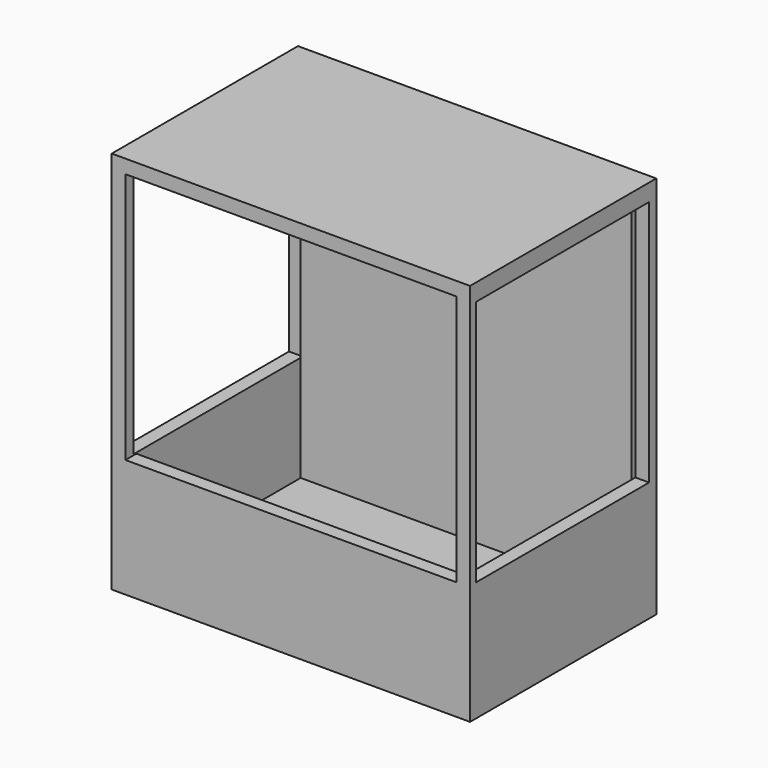
from build123d import *

# Parameters (mm, degrees)
F0_W     = 664.733171463
F0_H     = 712.0994329453
F1_DEPTH = 431.8
F2_T     = -25.4
F3_W     = 613.933171463
F3_H     = 194.4507785797
F4_DEPTH = 25.4
F5_W     = 401.3557694852
F5_H     = 468.805462122
F6_DEPTH = 25.4
F7_W     = 392.9471150041
F7_H     = 457.1952670813
F8_DEPTH = 25.4
F9_DEPTH = 10.668


with BuildPart() as f1:
    # F0 (on Front) → F1 (new body)
    with BuildSketch(Plane.XZ):
        Rectangle(F0_W, F0_H)
    extrude(amount=F1_DEPTH)

    # F2
    f2_openings = [f1.faces().sort_by_distance(p)[0] for p in [
        (0, -431.8, 0),
    ]]
    offset(amount=F2_T, openings=f2_openings)

    # F3 (on face) → F4 (join)
    with BuildSketch(Plane.XZ.offset(431.8)):
        with Locations((0, -233.4243271828)):
            Rectangle(F3_W, F3_H)
    extrude(amount=-F4_DEPTH)

    # F5 (on face) → F6 (cut)
    with BuildSketch(Plane.YZ.offset(332.3665857315)):
        with Locations((-217.3207271844, 89.9267345667)):
            Rectangle(F5_W, F5_H)
    extrude(amount=-F6_DEPTH, mode=Mode.SUBTRACT)

    # F7 (on face) → F8 (cut)
    with BuildSketch(Plane(origin=(-332.3665857315, 0, 0), x_dir=(0, -1, 0), z_dir=(-1, 0, 0))):
        with Locations((217.2129563987, 94.2879095674)):
            Rectangle(F7_W, F7_H)
    extrude(amount=-F8_DEPTH, mode=Mode.SUBTRACT)

    # F9 (add): a face of the model
    f9_faces = [f1.faces().sort_by_distance(p)[0] for p in [
        (319.6665857315, -217.3207271844, -144.4759964943),
    ]]
    extrude(f9_faces, amount=F9_DEPTH)


solid = f1.part
